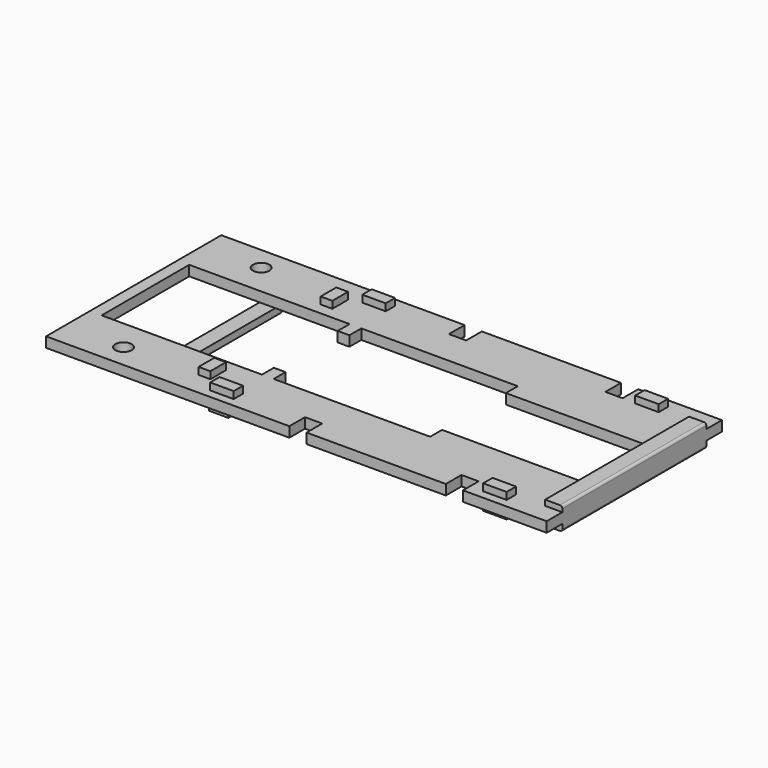
from build123d import *

# Parameters (mm, degrees)
F0_R      = 1.05
F1_DEPTH  = 1.3
F3_W      = 2.2
F3_H      = 23
F4_DEPTH  = 0.7
F5_W      = 2.5
F5_H      = 1.5
F5_W_2    = 1.5
F5_H_2    = 2.5
F5_W_3    = 3
F5_W_4    = 2.2
F5_H_3    = 23
F6_DEPTH  = 0.9
F7_R      = 0.3
F8_R      = 0.3
F9_W      = 2
F9_H      = 1
F9_H_2    = 14
F10_DEPTH = 0.9
F3_W_2    = 3
F3_H_2    = 1.5
F3_W_3    = 1.5
F3_H_3    = 2.5
F11_DEPTH = 0.9


with BuildPart() as f1:
    # F0 (on Top) → F1 (new body)
    with BuildSketch(Plane.XY):
        Polygon((21.3, -14), (32, -14), (32, 14), (21.3, 14), (21.3, 11.5), (19.1, 11.5), (19.1, 14), (1.3, 14), (1.3, 11.5), (-0.9, 11.5), (-0.9, 14), (-32, 14), (-32, -14), (-0.9, -14), (-0.9, -11.5), (1.3, -11.5), (1.3, -14), (19.1, -14), (19.1, -11.5), (21.3, -11.5), align=None)
        with Locations((-24.5, -11)):
            Circle(F0_R, mode=Mode.SUBTRACT)
        Polygon((-10, 7), (-10, 5.1), (-8.5, 5.1), (-8.5, 7), (11.5, 7), (11.5, 5.1), (29.6, 5.1), (29.6, -5.1), (11.5, -5.1), (11.5, -7), (-8.5, -7), (-8.5, -5.1), (-10, -5.1), (-10, -7), (-30.5, -7), (-30.5, -5.1), (-30.5, 5.1), (-30.5, 7), align=None, mode=Mode.SUBTRACT)
        with Locations((-24.5, 11)):
            Circle(F0_R, mode=Mode.SUBTRACT)
    extrude(amount=F1_DEPTH)

    # F3 (on face) → F4 (join)
    with BuildSketch(Plane.XY.offset(1.3)):
        with Locations((30.9, 0)):
            Rectangle(F3_W, F3_H)
    extrude(amount=F4_DEPTH)

    # F5 (on face) → F6 (join)
    with BuildSketch(Plane(origin=(0, 0, 0), x_dir=(1, 0, 0), z_dir=(0, 0, -1))):
        with Locations((-10.65, 12.3576217964)):
            Rectangle(F5_W, F5_H)
        with Locations((-14.15, 9.75)):
            Rectangle(F5_W_2, F5_H_2)
        with Locations((-14.15, -9.75)):
            Rectangle(F5_W_2, F5_H_2)
        with Locations((-10.65, -12.3576217964)):
            Rectangle(F5_W, F5_H)
        with Locations((24.5, -12.15)):
            Rectangle(F5_W_3, F5_H)
        with Locations((30.9, 0)):
            Rectangle(F5_W_4, F5_H_3)
        with Locations((24.5, 12.15)):
            Rectangle(F5_W_3, F5_H)
    extrude(amount=F6_DEPTH)

    # F7
    f7_edges = [f1.edges().sort_by_distance(p)[0] for p in [
        (32, 0, -0.9),
    ]]
    fillet(f7_edges, radius=F7_R)

    # F8
    f8_edges = [f1.edges().sort_by_distance(p)[0] for p in [
        (32, 0, 2),
    ]]
    fillet(f8_edges, radius=F8_R)

    # F9 (on face) → F10 (join)
    with BuildSketch(Plane(origin=(0, 0, 0), x_dir=(1, 0, 0), z_dir=(0, 0, -1))):
        with Locations((-20.5, 7.5)):
            Rectangle(F9_W, F9_H)
        with Locations((-20.5, -7.5)):
            Rectangle(F9_W, F9_H)
        with Locations((-20.5, 0)):
            Rectangle(F9_W, F9_H_2)
    extrude(amount=F10_DEPTH)

    # F3 (on face) → F11 (join)
    with BuildSketch(Plane.XY.offset(1.3)):
        with Locations((-10.4, 12.15)):
            Rectangle(F3_W_2, F3_H_2)
        with Locations((-14.15, 9.75)):
            Rectangle(F3_W_3, F3_H_3)
        with Locations((-14.15, -9.75)):
            Rectangle(F3_W_3, F3_H_3)
        with Locations((-10.4, -12.15)):
            Rectangle(F3_W_2, F3_H_2)
        with Locations((24.5, -12.15)):
            Rectangle(F3_W_2, F3_H_2)
        with Locations((24.5, 12.15)):
            Rectangle(F3_W_2, F3_H_2)
    extrude(amount=F11_DEPTH)


solid = f1.part
